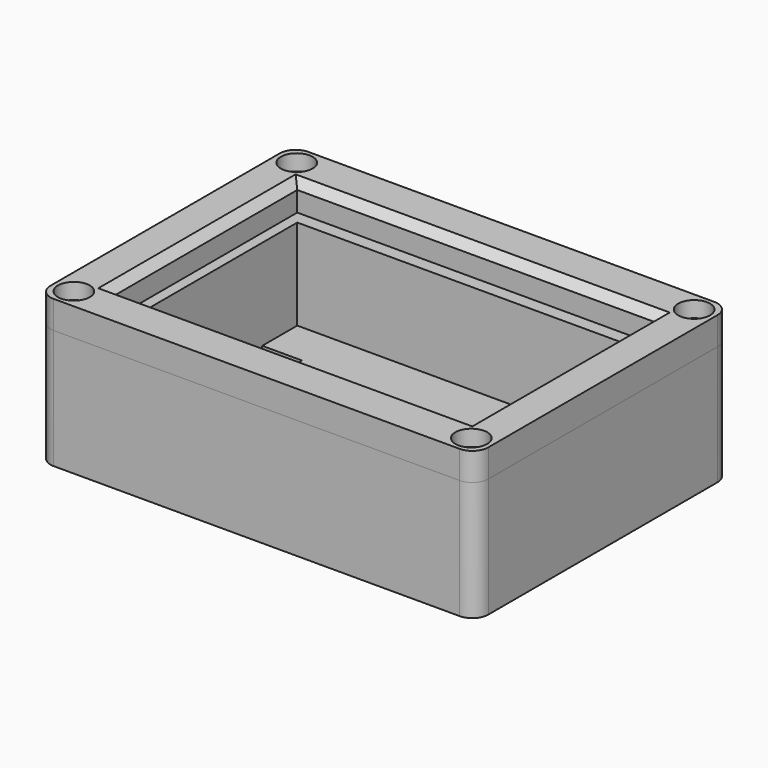
from build123d import *

# Parameters (mm, degrees)
F0_W      = 45
F0_H      = 29
F1_DEPTH  = 5.7
F2_W      = 34.1
F2_H      = 25.7
F3_DEPTH  = 7.8
F4_DEPTH  = 6
F6_DEPTH  = 4
F8_W      = 55
F8_H      = 40
F9_DEPTH  = 20
F11_W     = 45
F11_H     = 29
F12_DEPTH = 9.8
F13_W     = 2
F13_H     = 1
F14_DEPTH = 0.2
F16_DEPTH = 5
F17_W     = 49
F17_H     = 33
F17_W_2   = 45
F17_H_2   = 29
F18_DEPTH = 1.1
F19_R     = 1
F20_DEPTH = 11
F21_W     = 55
F21_H     = 40
F21_R     = 1
F21_W_2   = 45
F21_H_2   = 29
F22_DEPTH = 3.5
F23_R     = 2
F24_DEPTH = 2
F25_R     = 2
F25_2_R   = 2
F26_SIZE  = 1


with BuildPart() as f1:
    # F0 (on Top) → F1 (new body)
    with BuildSketch(Plane.XY):
        Rectangle(F0_W, F0_H)
    extrude(amount=F1_DEPTH)

    # F2 (on face) → F3 (join)
    with BuildSketch(Plane.XY.offset(5.7)):
        Rectangle(F2_W, F2_H)
    extrude(amount=F3_DEPTH)

    # F4 (add): a face of the model
    f4_faces = [f1.faces().sort_by_distance(p)[0] for p in [
        (0, 0, 0),
    ]]
    extrude(f4_faces, amount=F4_DEPTH)

    # F5 (on face) → F6 (cut)
    with BuildSketch(Plane(origin=(0, 0, -6), x_dir=(1, 0, 0), z_dir=(0, 0, -1))):
        Polygon((-22.5, 9), (-17.5, 9), (-17.5, -9), (-22.5, -9), (-22.5, -14.5), (22.5, -14.5), (22.5, 14.5), (-22.5, 14.5), align=None)
    extrude(amount=-F6_DEPTH, mode=Mode.SUBTRACT)


with BuildPart() as f9:
    # F8 (on offset) → F9 (new body)
    with BuildSketch(Plane.XY.offset(15.5)):
        Rectangle(F8_W, F8_H)
    extrude(amount=-F9_DEPTH)

    # F10: cut F1
    add(f1.part, mode=Mode.SUBTRACT)

    # F11 (on face) → F12 (cut, through all)
    with BuildSketch(Plane.XY.offset(15.5)):
        Rectangle(F11_W, F11_H)
    extrude(amount=-F12_DEPTH, mode=Mode.SUBTRACT)



with BuildPart() as f14:
    # F13 (on face) → F14 (new body)
    with BuildSketch(Plane(origin=(22.5, 0, 0), x_dir=(0, -1, 0), z_dir=(-1, 0, 0))):
        with Locations((0, 1.7)):
            Rectangle(F13_W, F13_H)
    extrude(amount=F14_DEPTH)


with BuildPart() as f9_1:
    add(f9.part)

    add(f14.part)  # F15 merges F14
    # F15: F14 across plane
    add(f14.part.mirror(Plane.YZ))

    # F8 (on offset) → F16 (cut)
    with BuildSketch(Plane.XY.offset(15.5)):
        Rectangle(F8_W, F8_H)
    extrude(amount=-F16_DEPTH, mode=Mode.SUBTRACT)

    # F17 (on face) → F18 (cut)
    with BuildSketch(Plane.XY.offset(10.5)):
        Rectangle(F17_W, F17_H)
        Rectangle(F17_W_2, F17_H_2, mode=Mode.SUBTRACT)
    extrude(amount=-F18_DEPTH, mode=Mode.SUBTRACT)

    # F19 (on face) → F20 (cut)
    with BuildSketch(Plane.XY.offset(10.5)):
        with Locations((-24.9669570476, -17.5)):
            Circle(F19_R)
        with Locations((-24.9669570476, 17.5)):
            Circle(F19_R)
        with Locations((24.9669570476, -17.5)):
            Circle(F19_R)
        with Locations((24.9669570476, 17.5)):
            Circle(F19_R)
    extrude(amount=-F20_DEPTH, mode=Mode.SUBTRACT)

    # F25
    f25_edges = [f9_1.edges().sort_by_distance(p)[0] for p in [
        (-27.5, 20, 3),
        (-27.5, -20, 3),
        (27.5, -20, 3),
        (27.5, 20, 3),
    ]]
    fillet(f25_edges, radius=F25_R)


with BuildPart() as f22:
    # F21 (on face) → F22 (new body)
    with BuildSketch(Plane.XY.offset(10.5)):
        Rectangle(F21_W, F21_H)
        with Locations((-24.9669570476, -17.5)):
            Circle(F21_R, mode=Mode.SUBTRACT)
        with Locations((24.9669570476, -17.5)):
            Circle(F21_R, mode=Mode.SUBTRACT)
        with Locations((-24.9669570476, 17.5)):
            Circle(F21_R, mode=Mode.SUBTRACT)
        Rectangle(F21_W_2, F21_H_2, mode=Mode.SUBTRACT)
        with Locations((24.9669570476, 17.5)):
            Circle(F21_R, mode=Mode.SUBTRACT)
    extrude(amount=F22_DEPTH)

    # F23 (on face) → F24 (cut)
    with BuildSketch(Plane.XY.offset(14)):
        with Locations((24.9669570476, 17.5)):
            Circle(F23_R)
        with Locations((24.9669570476, -17.5)):
            Circle(F23_R)
        with Locations((-24.9669570476, 17.5)):
            Circle(F23_R)
        with Locations((-24.9669570476, -17.5)):
            Circle(F23_R)
    extrude(amount=-F24_DEPTH, mode=Mode.SUBTRACT)

    # F25#2
    f25_2_edges = [f22.edges().sort_by_distance(p)[0] for p in [
        (-27.5, 20, 12.25),
        (-27.5, -20, 12.25),
        (27.5, -20, 12.25),
        (27.5, 20, 12.25),
    ]]
    fillet(f25_2_edges, radius=F25_2_R)

    # F26
    f26_edges = [f22.edges().sort_by_distance(p)[0] for p in [
        (0, -14.5, 14),
        (22.5, 0, 14),
        (0, 14.5, 14),
        (-22.5, 0, 14),
    ]]
    chamfer(f26_edges, length=F26_SIZE)


solid = Compound([f9_1.part, f22.part])
